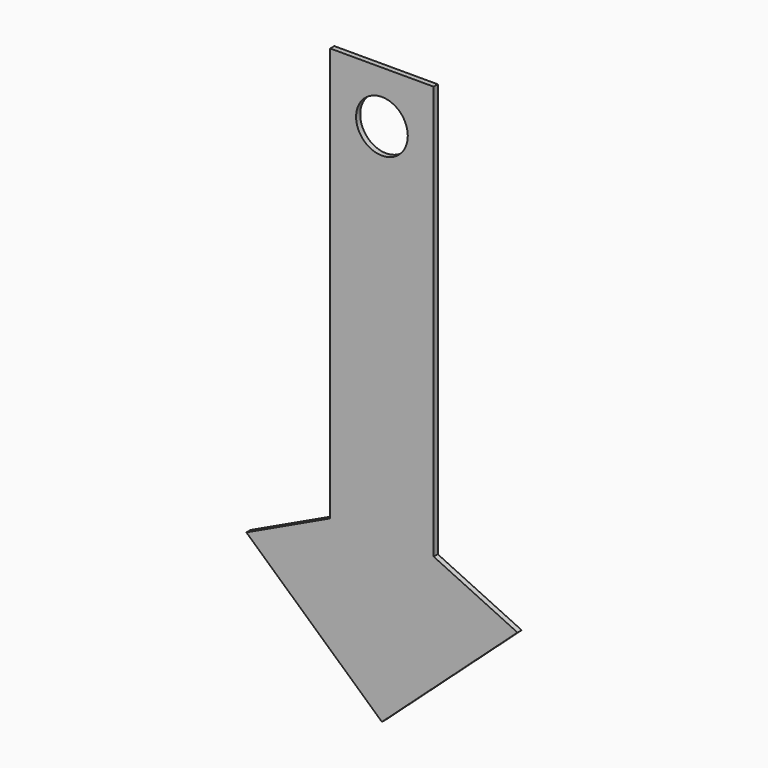
from build123d import *

# Parameters (mm, degrees)
F0_W     = 20
F0_H     = 80
F0_R     = 5
F1_DEPTH = 1


with BuildPart() as f1:
    # F0 (on Front) → F1 (new body)
    with BuildSketch(Plane.XZ):
        with Locations((0, -30)):
            Rectangle(F0_W, F0_H)
        Circle(F0_R, mode=Mode.SUBTRACT)
        Polygon((10, -70), (-10, -70), (-26.218524, -77.658573), (0, -101.399094), (26.218524, -77.658573), align=None)
    extrude(amount=F1_DEPTH)


solid = f1.part
